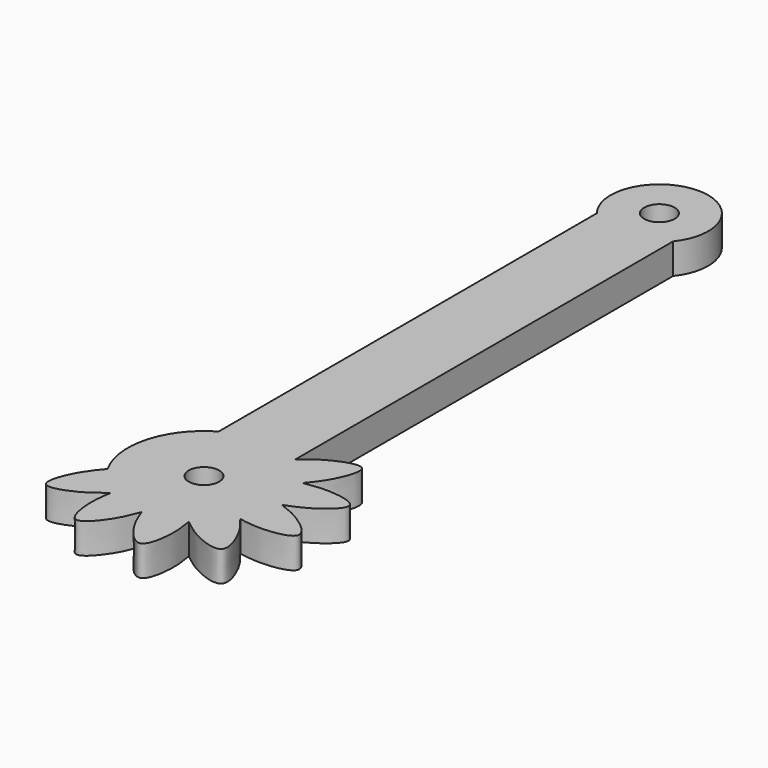
from build123d import *

# Parameters (mm, degrees)
F0_R     = 1.5
F1_DEPTH = 3
F2_COUNT = 4
F2_ANGLE = 90
F3_DEPTH = 3


with BuildPart() as f1:
    # F0 (on Top) → F1 (new body)
    with BuildSketch(Plane.XY):
        with BuildLine():
            ThreePointArc((11.25, -3), (10.2451905284, 0.75), (7.5, 3.4951905284))
            ThreePointArc((7.5, 3.4951905284), (3.75, 4.5), (0, 3.4951905284))
            ThreePointArc((0, 3.4951905284), (-2.7603869175, -6.7235550465), (7.4470485127, -9.5254756374))
            ThreePointArc((7.4470485127, -9.5254756374), (9.0533008589, -8.3033008589), (10.2754756374, -6.6970485127))
            ThreePointArc((10.2754756374, -6.6970485127), (11.0022778243, -4.9116658598), (11.25, -3))
        make_face()
        with Locations((3.75, -3)):
            Circle(F0_R, mode=Mode.SUBTRACT)
        with BuildLine():
            ThreePointArc((10.2754756374, -6.6970485127), (9.0533008589, -8.3033008589), (7.4470485127, -9.5254756374))
            add(Edge.make_bspline(
                [(10.2754756374, -6.6970485127), (10.8307852997, -7.3634585229), (11.9260474334, -8.6778488518), (13.2146634909, -12.4646634909), (9.4278488518, -11.1760474334), (8.1134585229, -10.0807852997), (7.4470485127, -9.5254756374)],
                knots=[0, 0, 0, 0, 0.2535053688, 0.5, 0.7464946312, 1, 1, 1, 1], degree=3))
        make_face()
    extrude(amount=F1_DEPTH)

    # F2: F1 ×4 about axis, to both sides
    f2_axis = Axis((3.75, -3, 0), (0, 0, 1))


with BuildPart() as f1_1:
    add(f1.part)
    for i in range(1, F2_COUNT):
        add(f1.part.rotate(f2_axis, i * F2_ANGLE / (F2_COUNT - 1)))
        add(f1.part.rotate(f2_axis, -i * F2_ANGLE / (F2_COUNT - 1)))

    # F0 (on Top) → F3 (join)
    with BuildSketch(Plane.XY):
        with BuildLine():
            Line((7.5, 3.4951905284), (7.5, 50))
            ThreePointArc((7.5, 50), (3.75, 57.8023431781), (0, 50))
            Line((0, 50), (0, 3.4951905284))
            ThreePointArc((0, 3.4951905284), (3.75, 4.5), (7.5, 3.4951905284))
        make_face()
        with Locations((3.75, 53)):
            Circle(F0_R, mode=Mode.SUBTRACT)
    extrude(amount=F3_DEPTH)


solid = f1_1.part
